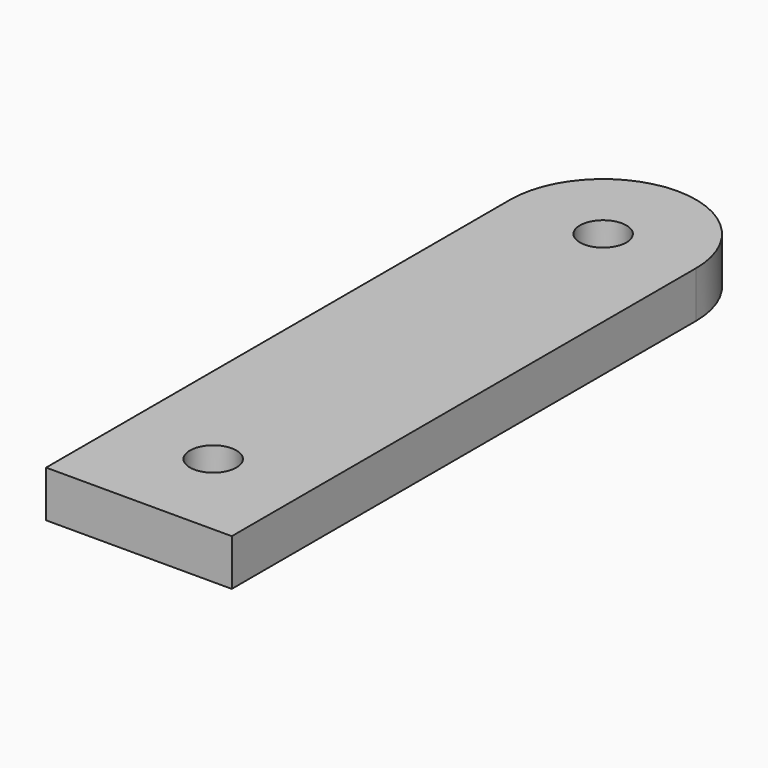
from build123d import *

# Parameters (mm, degrees)
F0_R     = 5
F1_DEPTH = 10


with BuildPart() as f1:
    # F0 (on Top) → F1 (new body)
    with BuildSketch(Plane.XY):
        with BuildLine():
            Line((-20, -62.5), (20, -62.5))
            Line((20, -62.5), (20, 62.5))
            ThreePointArc((20, 62.5), (0, 82.5), (-20, 62.5))
            Line((-20, 62.5), (-20, -62.5))
        make_face()
        with Locations((0, -42.5)):
            Circle(F0_R, mode=Mode.SUBTRACT)
        with Locations((0, 62.5)):
            Circle(F0_R, mode=Mode.SUBTRACT)
    extrude(amount=F1_DEPTH)


solid = f1.part
